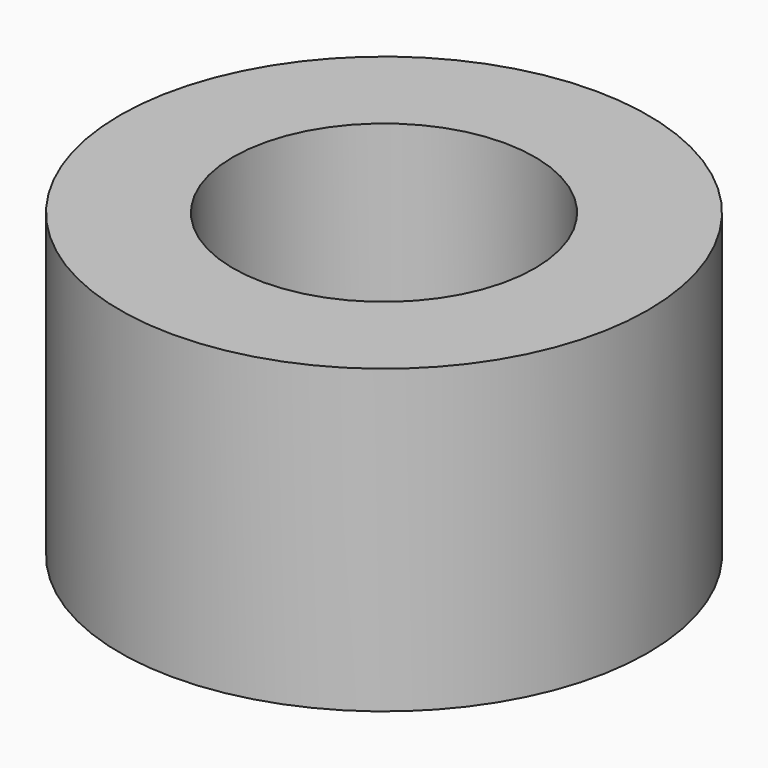
from build123d import *

# Parameters (mm, degrees)
F0_R     = 22.225
F1_DEPTH = 25.4
F2_R     = 12.7
F3_DEPTH = 25.4


with BuildPart() as f1:
    # F0 (on Top) → F1 (new body)
    with BuildSketch(Plane.XY):
        Circle(F0_R)
        Circle(F0_R)
    extrude(amount=F1_DEPTH)

    # F2 (on face) → F3 (cut)
    with BuildSketch(Plane.XY.offset(25.4)):
        Circle(F2_R)
    extrude(amount=-F3_DEPTH, mode=Mode.SUBTRACT)


solid = f1.part
